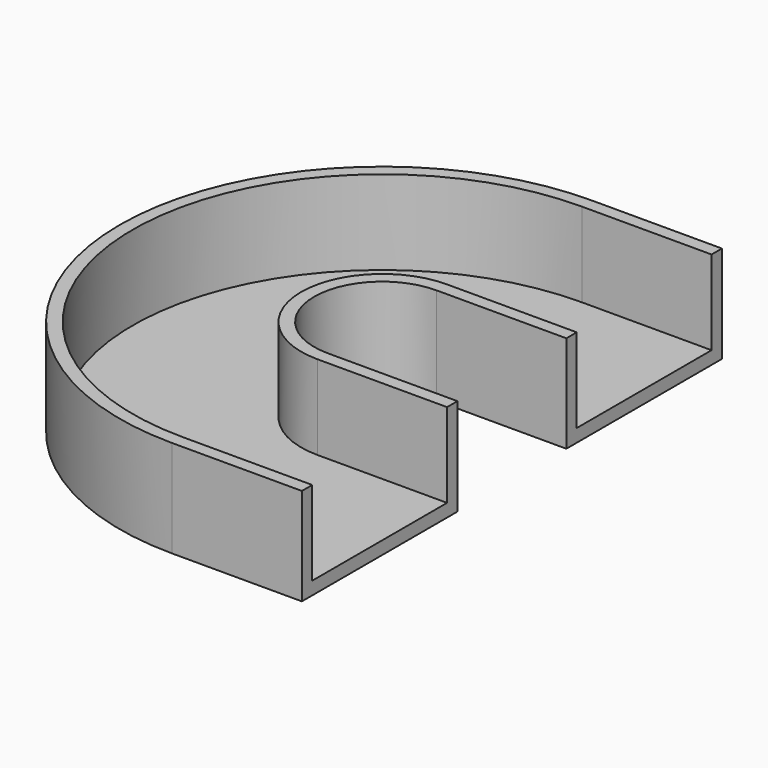
from build123d import *

# Parameters (mm, degrees)
F0_W     = 50.8
F0_H     = 66.04
F1_DEPTH = 5.08
F0_H_2   = 5.08
F2_DEPTH = 38.1


with BuildPart() as f1:
    # F0 (on Top) → F1 (new body)
    with BuildSketch(Plane.XY):
        with BuildLine():
            ThreePointArc((0, -31.75), (-31.75, 0), (0, 31.75))
            Line((0, 31.75), (0, 97.79))
            ThreePointArc((0, 97.79), (-97.79, 0), (0, -97.79))
            Line((0, -97.79), (0, -31.75))
        make_face()
        with Locations((25.4, -64.77)):
            Rectangle(F0_W, F0_H)
        with Locations((25.4, 64.77)):
            Rectangle(F0_W, F0_H)
    extrude(amount=F1_DEPTH)

    # F0 (on Top) → F2 (join)
    with BuildSketch(Plane.XY):
        with BuildLine():
            ThreePointArc((0, -97.79), (-97.79, 0), (0, 97.79))
            Line((0, 97.79), (0, 102.87))
            ThreePointArc((0, 102.87), (-102.87, 0), (0, -102.87))
            Line((0, -102.87), (0, -97.79))
        make_face()
        with Locations((25.4, -100.33)):
            Rectangle(F0_W, F0_H_2)
        with BuildLine():
            Line((0, 26.67), (0, 31.75))
            ThreePointArc((0, 31.75), (-31.75, 0), (0, -31.75))
            Line((0, -31.75), (0, -26.67))
            ThreePointArc((0, -26.67), (-26.67, 0), (0, 26.67))
        make_face()
        with Locations((25.4, -29.21)):
            Rectangle(F0_W, F0_H_2)
        with Locations((25.4, 29.21)):
            Rectangle(F0_W, F0_H_2)
        with Locations((25.4, 100.33)):
            Rectangle(F0_W, F0_H_2)
    extrude(amount=F2_DEPTH)


solid = f1.part
